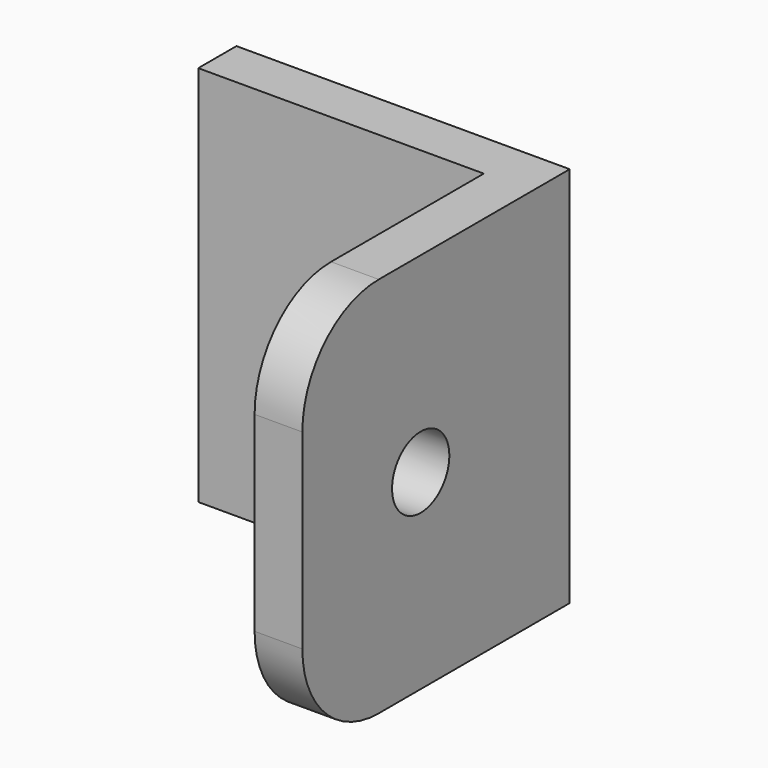
from build123d import *

# Parameters (mm, degrees)
F0_W          = 3.175
F0_H          = 25.4
F1_DEPTH      = 19.05
F2_R          = 2.38125
F3_DEPTH      = 25.4
F4_W          = 3.175
F4_H          = 25.4
F5_DEPTH      = 20.574
F5_DEPTH_BACK = 1.5875


with BuildPart() as f1:
    # F0 (on Front) → F1 (new body)
    with BuildSketch(Plane.XZ):
        Rectangle(F0_W, F0_H)
    extrude(amount=F1_DEPTH)

    # F2 (on face) → F3 (cut)
    with BuildSketch(Plane.YZ.offset(1.5875)):
        with BuildLine():
            ThreePointArc((-19.05, 6.35), (-17.1901280605, 10.8401280605), (-12.7, 12.7))
            Line((-12.7, 12.7), (-19.05, 12.7))
            Line((-19.05, 12.7), (-19.05, 6.35))
        make_face()
        with BuildLine():
            ThreePointArc((-12.7, -12.7), (-17.1901280605, -10.8401280605), (-19.05, -6.35))
            Line((-19.05, -6.35), (-19.05, -12.7))
            Line((-19.05, -12.7), (-12.7, -12.7))
        make_face()
        with Locations((-9.212619625, 0)):
            Circle(F2_R)
    extrude(amount=-F3_DEPTH, mode=Mode.SUBTRACT)

    # F4 (on Right) → F5 (join, two sides)
    with BuildSketch(Plane.YZ) as f5_sk:
        with Locations((1.5875, 0)):
            Rectangle(F4_W, F4_H)
    extrude(amount=-F5_DEPTH)
    extrude(f5_sk.sketch, amount=F5_DEPTH_BACK)


solid = f1.part
